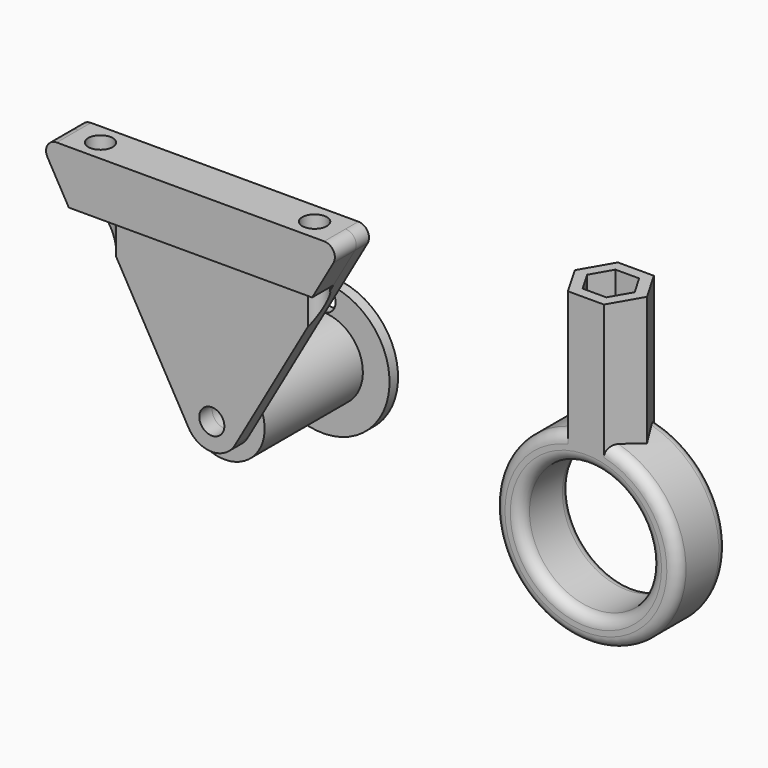
from build123d import *

# Parameters (mm, degrees)
F1_DEPTH  = 25
F2_R      = 17.1678772175
F2_R_2    = 12.1678772175
F3_DEPTH  = 5.85
F4_R      = 2
F6_DEPTH  = 3
F7_R      = 5
F8_R      = 2
F10_DEPTH = 5
F12_R     = 2.3
F13_DEPTH = 25
F14_R     = 2.35
F15_DEPTH = 8.001
F16_R     = 7.5
F17_DEPTH = 25
F18_R     = 12.5
F18_R_2   = 7.5
F19_DEPTH = 2
F20_R     = 2.35
F21_DEPTH = 33.001
F22_R     = 2.35
F23_DEPTH = 2


with BuildPart() as f1:
    # F0 (on Top) → F1 (new body)
    with BuildSketch(Plane.XY):
        Polygon((3.3774990748, 5.85), (-3.3774990748, 5.85), (-6.7549981495, 0), (-3.3774990748, -5.85), (3.3774990748, -5.85), (6.7549981495, 0), align=None)
        Polygon((-4.4455970728, 0), (-2.2227985364, 3.85), (2.2227985364, 3.85), (4.4455970728, 0), (2.2227985364, -3.85), (-2.2227985364, -3.85), align=None, mode=Mode.SUBTRACT)
    extrude(amount=F1_DEPTH)

    # F2 (on Front) → F3 (join, symmetric)
    with BuildSketch(Plane.XZ):
        with Locations((0, -15.0029723165)):
            Circle(F2_R)
        with Locations((0, -15.0029723165)):
            Circle(F2_R_2, mode=Mode.SUBTRACT)
    extrude(amount=F3_DEPTH, both=True)

    # F4
    f4_edges = [f1.edges().sort_by_distance(p)[0] for p in [
        (-12.167877, -5.85, -15.002972),
        (-12.167877, 5.85, -15.002972),
        (0, 5.85, -32.17085),
        (0, -5.85, -32.17085),
    ]]
    fillet(f4_edges, radius=F4_R)


with BuildPart() as f6:
    # F5 (on Front) → F6 (new body)
    with BuildSketch(Plane.XZ):
        Polygon((-72.377845645, -30.1795691463), (-43.877845645, 19.8204308537), (-100.877845645, 19.8204308537), align=None)
    extrude(amount=F6_DEPTH)

    # F7
    f7_edges = [f6.edges().sort_by_distance(p)[0] for p in [
        (-72.377846, -1.5, -30.179569),
    ]]
    fillet(f7_edges, radius=F7_R)

    # F8
    f8_edges = [f6.edges().sort_by_distance(p)[0] for p in [
        (-43.877846, -1.5, 19.820431),
        (-100.877846, -1.5, 19.820431),
    ]]
    fillet(f8_edges, radius=F8_R)

    # F9 (on face) → F10 (join)
    with BuildSketch(Plane.XZ.offset(3)):
        with BuildLine():
            ThreePointArc((-45.5823771151, 16.8300247656), (-45.5906525895, 18.8252163591), (-47.3199316555, 19.8204308537))
            Line((-47.3199316555, 19.8204308537), (-97.4357596344, 19.8204308537))
            ThreePointArc((-97.4357596344, 19.8204308537), (-99.1650387004, 18.8252163591), (-99.1733141748, 16.8300247656))
            Line((-99.1733141748, 16.8300247656), (-95.177845645, 9.8204308537))
            Line((-95.177845645, 9.8204308537), (-49.577845645, 9.8204308537))
            Line((-49.577845645, 9.8204308537), (-45.5823771151, 16.8300247656))
        make_face()
    extrude(amount=F10_DEPTH)

    # F12 (on face) → F13 (cut)
    with BuildSketch(Plane.XY.offset(19.8204308537)):
        with Locations((-92.4357596344, -4)):
            Circle(F12_R)
        with Locations((-52.3199316555, -4)):
            Circle(F12_R)
    extrude(amount=-F13_DEPTH, mode=Mode.SUBTRACT)

    # F14 (on face) → F15 (cut, through all)
    with BuildSketch(Plane(origin=(0, 0, 0), x_dir=(-1, 0, 0), z_dir=(0, 1, 0))):
        with Locations((72.377845645, -20.082700679)):
            Circle(F14_R)
    extrude(amount=-F15_DEPTH, mode=Mode.SUBTRACT)


with BuildPart() as f17:
    # F16 (on face) → F17 (new body)
    with BuildSketch(Plane(origin=(0, 0, 0), x_dir=(-1, 0, 0), z_dir=(0, 1, 0))):
        with Locations((72.377845645, -20.082700679)):
            Circle(F16_R)
    extrude(amount=F17_DEPTH)

    # F18 (on face) → F19 (join)
    with BuildSketch(Plane(origin=(0, 25, 0), x_dir=(-1, 0, 0), z_dir=(0, 1, 0))):
        with Locations((72.377845645, -20.082700679)):
            Circle(F18_R)
        with Locations((72.377845645, -20.082700679)):
            Circle(F18_R_2, mode=Mode.SUBTRACT)
    extrude(amount=-F19_DEPTH)

    # F20 (on face) → F21 (cut, through all)
    with BuildSketch(Plane(origin=(0, 25, 0), x_dir=(-1, 0, 0), z_dir=(0, 1, 0))):
        with Locations((72.377845645, -20.082700679)):
            Circle(F20_R)
    extrude(amount=-F21_DEPTH, mode=Mode.SUBTRACT)

    # F22 (on face) → F23 (cut, through all)
    with BuildSketch(Plane(origin=(0, 25, 0), x_dir=(-1, 0, 0), z_dir=(0, 1, 0))):
        with Locations((72.3369743648, -10.2327854743)):
            Circle(F22_R)
    extrude(amount=-F23_DEPTH, mode=Mode.SUBTRACT)


solid = Compound([f1.part, f6.part, f17.part])
